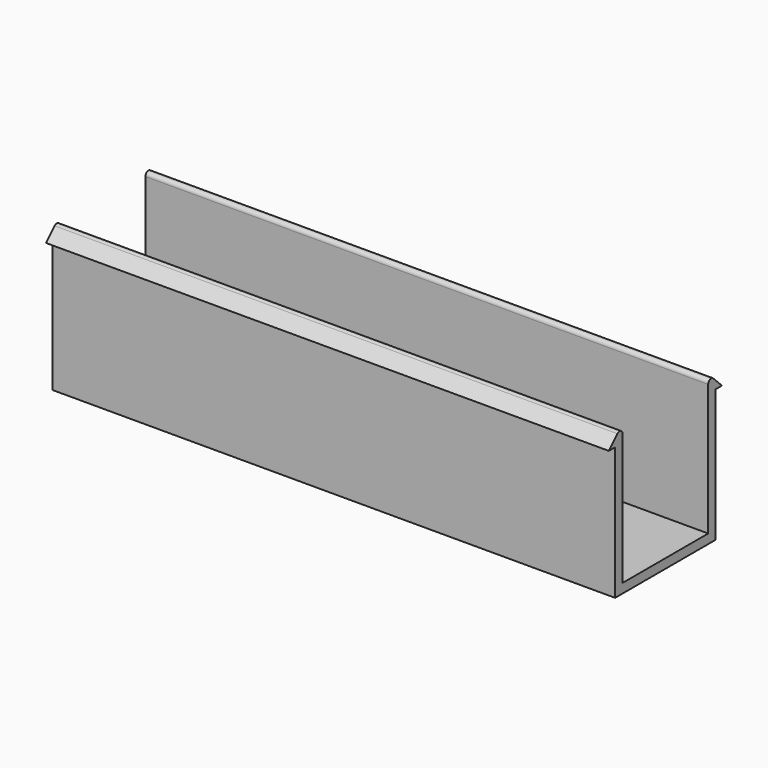
from build123d import *

# Parameters (mm, degrees)
F1_DEPTH = 191.008
F2_R     = 1.27


with BuildPart() as f1:
    # F0 (on Right) → F1 (new body)
    with BuildSketch(Plane.YZ):
        Polygon((0, 44.9834), (0, 0), (42.672, 0), (42.672, 44.9834), (45.3136, 44.9834), (39.497, 50.8), (39.497, 3.175), (3.175, 3.175), (3.175, 50.8), (-2.6416, 44.9834), align=None)
    extrude(amount=F1_DEPTH)

    # F2
    f2_edges = [f1.edges().sort_by_distance(p)[0] for p in [
        (95.504, 3.175, 50.8),
        (95.504, 39.497, 50.8),
    ]]
    fillet(f2_edges, radius=F2_R)


solid = f1.part
